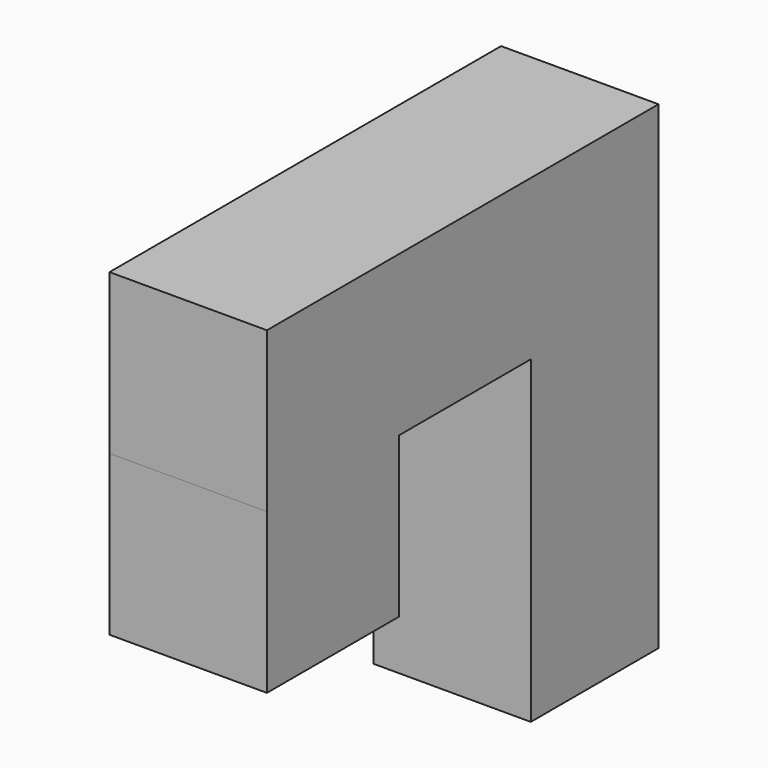
from build123d import *

# Parameters (mm, degrees)
F0_W      = 54.605342
F0_H      = 59.04441
F1_DEPTH  = 55.372
F2_W      = 54.605342
F2_H      = 55.372
F3_DEPTH  = 55.372
F4_W      = 54.605342
F4_H      = 55.372
F5_DEPTH  = 55.372
F6_W      = 54.605342
F6_H      = 55.372
F7_DEPTH  = 55.372
F8_W      = 54.605342
F8_H      = 55.372
F9_DEPTH  = 55.372
F10_W     = 54.605342
F10_H     = 57.208205
F11_DEPTH = 55.372


with BuildPart() as f1:
    # F0 (on Top) → F1 (new body)
    with BuildSketch(Plane.XY):
        with Locations((27.302671, -29.522205)):
            Rectangle(F0_W, F0_H)
    extrude(amount=F1_DEPTH)

    # F2 (on face) → F3 (join)
    with BuildSketch(Plane(origin=(0, 0, 0), x_dir=(-1, 0, 0), z_dir=(0, 1, 0))):
        with Locations((-27.302671, 27.686)):
            Rectangle(F2_W, F2_H)
    extrude(amount=F3_DEPTH)

    # F4 (on face) → F5 (join)
    with BuildSketch(Plane.XZ.offset(59.04441)):
        with Locations((27.302671, 27.686)):
            Rectangle(F4_W, F4_H)
    extrude(amount=F5_DEPTH)

    # F6 (on face) → F7 (join)
    with BuildSketch(Plane(origin=(0, 0, 0), x_dir=(1, 0, 0), z_dir=(0, 0, -1))):
        with Locations((27.302671, -27.686)):
            Rectangle(F6_W, F6_H)
    extrude(amount=F7_DEPTH)

    # F8 (on face) → F9 (join)
    with BuildSketch(Plane(origin=(0, 0, -55.372), x_dir=(1, 0, 0), z_dir=(0, 0, -1))):
        with Locations((27.302671, -27.686)):
            Rectangle(F8_W, F8_H)
    extrude(amount=F9_DEPTH)

    # F10 (on face) → F11 (join)
    with BuildSketch(Plane(origin=(0, 0, 0), x_dir=(1, 0, 0), z_dir=(0, 0, -1))):
        with Locations((27.302671, 85.812308)):
            Rectangle(F10_W, F10_H)
    extrude(amount=F11_DEPTH)


solid = f1.part
